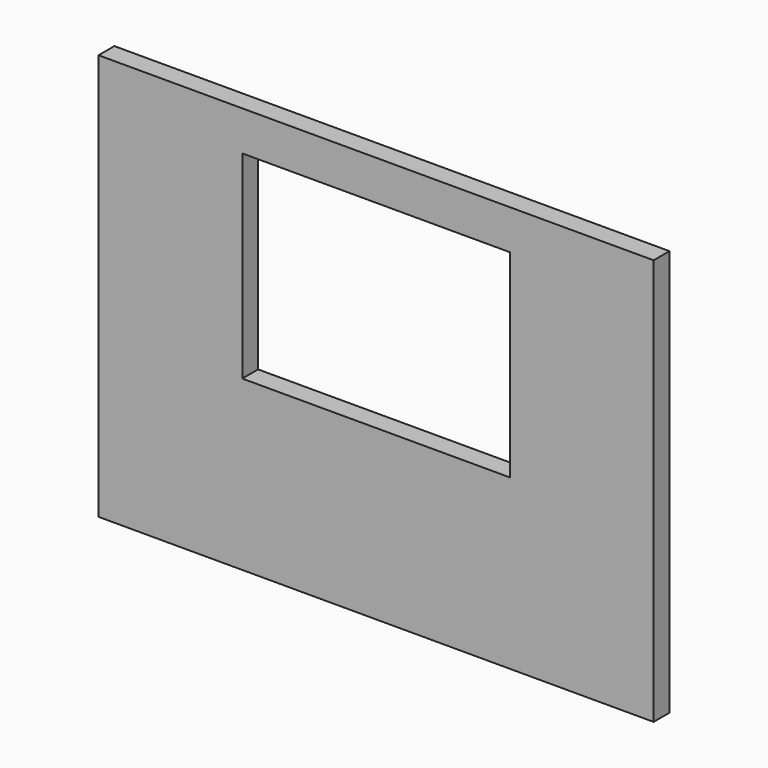
from build123d import *

# Parameters (mm, degrees)
F1_DEPTH = 2


with BuildPart() as f1:
    # F0 (on Front) → F1 (new body)
    with BuildSketch(Plane.XZ):
        Polygon((28, 16.5), (28, 20.5), (-28, 20.5), (-28, 16.5), (-28, -3.5), (-28, -20.5), (28, -20.5), (28, -3.5), align=None)
        Polygon((-13.5, 16.5), (13.5, 16.5), (13.5, 1), (13.5, -3.5), (-13.5, -3.5), (-13.5, 1), align=None, mode=Mode.SUBTRACT)
    extrude(amount=F1_DEPTH)


solid = f1.part
